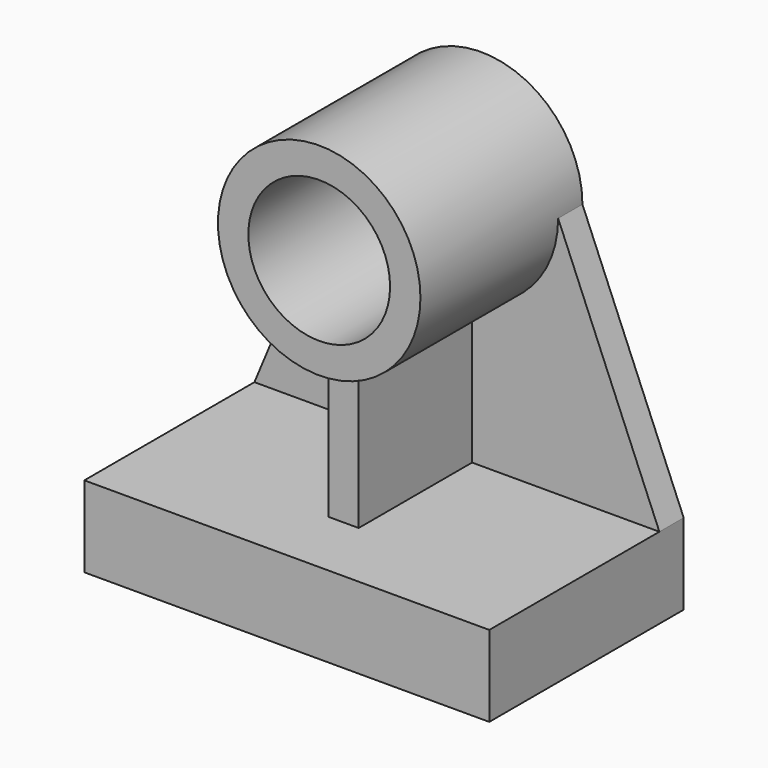
from build123d import *

# Parameters (mm, degrees)
F0_W     = 254
F0_H     = 50.8
F1_DEPTH = 152.4
F2_DEPTH = 127
F3_DEPTH = 19.05
F4_R     = 44.45
F5_DEPTH = 127.001
F7_DEPTH = 88.9


with BuildPart() as f1:
    # F0 (on Front) → F1 (new body)
    with BuildSketch(Plane.XZ):
        Rectangle(F0_W, F0_H)
    extrude(amount=F1_DEPTH)


with BuildPart() as f2:
    # F0 (on Front) → F2 (new body)
    with BuildSketch(Plane.XZ):
        with BuildLine():
            ThreePointArc((-63.5, 177.8), (0, 114.3), (63.5, 177.8))
            ThreePointArc((63.5, 177.8), (0, 241.3), (-63.5, 177.8))
        make_face()
    extrude(amount=F2_DEPTH)

    # F4 (on face) → F5 (cut, through all)
    with BuildSketch(Plane.XZ.offset(127)):
        with Locations((0, 177.8)):
            Circle(F4_R)
    extrude(amount=-F5_DEPTH, mode=Mode.SUBTRACT)


with BuildPart() as f3:
    # F0 (on Front) → F3 (new body)
    with BuildSketch(Plane.XZ):
        with BuildLine():
            Line((-127, 25.4), (127, 25.4))
            Line((127, 25.4), (63.5, 177.8))
            ThreePointArc((63.5, 177.8), (0, 114.3), (-63.5, 177.8))
            Line((-63.5, 177.8), (-127, 25.4))
        make_face()
    extrude(amount=F3_DEPTH)


with BuildPart() as f7:
    # F6 (on face) → F7 (new body)
    with BuildSketch(Plane.XZ.offset(19.05)):
        with BuildLine():
            ThreePointArc((9.525, 115.018439), (0, 114.3), (-9.525, 115.018439))
            Line((-9.525, 115.018439), (-9.525, 25.4))
            Line((-9.525, 25.4), (9.525, 25.4))
            Line((9.525, 25.4), (9.525, 115.018439))
        make_face()
    extrude(amount=F7_DEPTH)


solid = Compound([f1.part, f2.part, f3.part, f7.part])
